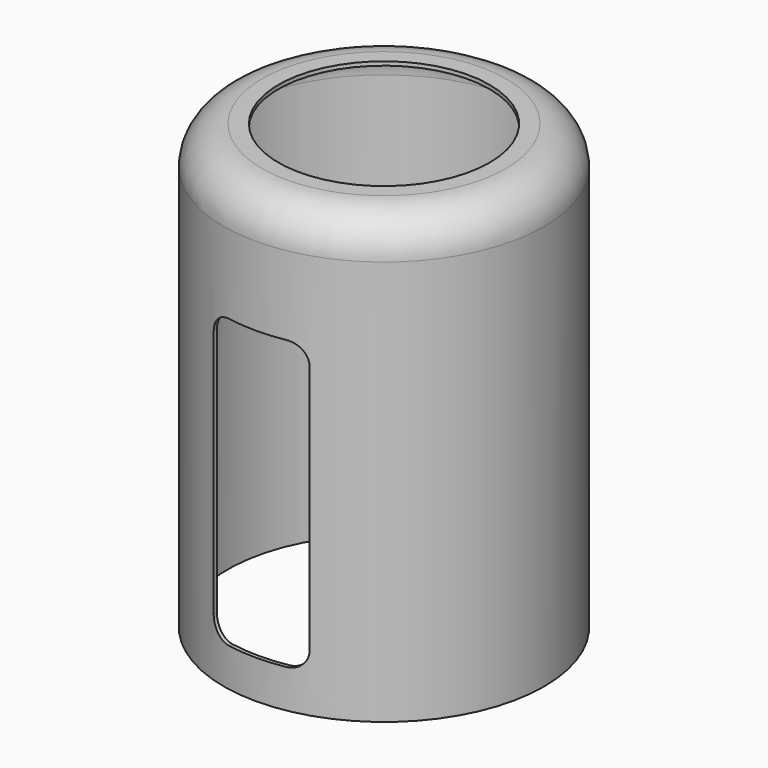
from build123d import *

# Parameters (mm, degrees)
F0_R     = 83.5
F1_DEPTH = 231
F2_R     = 20
F3_T     = -2
F5_DEPTH = 84.5000001
F6_R     = 55
F7_DEPTH = 25


with BuildPart() as f1:
    # F0 (on Top) → F1 (new body)
    with BuildSketch(Plane.XY):
        Circle(F0_R)
    extrude(amount=F1_DEPTH)

    # F2
    f2_edges = [f1.edges().sort_by_distance(p)[0] for p in [
        (-83.5, 0, 231),
    ]]
    fillet(f2_edges, radius=F2_R)

    # F3
    f3_openings = [f1.faces().sort_by_distance(p)[0] for p in [
        (0, 0, 0),
    ]]
    offset(amount=F3_T, openings=f3_openings)

    # F4 (on Front) → F5 (cut, up to face)
    with BuildSketch(Plane.XZ):
        with BuildLine():
            Line((-15, 20), (15, 20))
            ThreePointArc((15, 20), (22.0710678119, 22.9289321881), (25, 30))
            Line((25, 30), (25, 160))
            ThreePointArc((25, 160), (22.0710678119, 167.0710678119), (15, 170))
            Line((15, 170), (-15, 170))
            ThreePointArc((-15, 170), (-22.0710678119, 167.0710678119), (-25, 160))
            Line((-25, 160), (-25, 30))
            ThreePointArc((-25, 30), (-22.0710678119, 22.9289321881), (-15, 20))
        make_face()
    extrude(amount=F5_DEPTH, mode=Mode.SUBTRACT)

    # F6 (on face) → F7 (cut)
    with BuildSketch(Plane.XY.offset(231)):
        Circle(F6_R)
    extrude(amount=-F7_DEPTH, mode=Mode.SUBTRACT)


solid = f1.part
